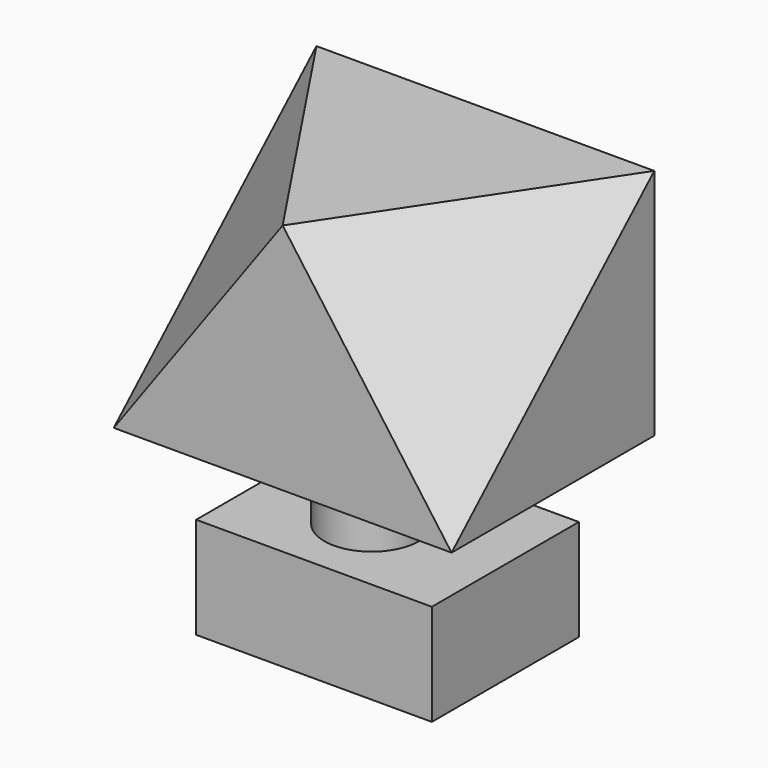
from build123d import *

# Parameters (mm, degrees)
F0_W      = 2540
F0_H      = 1752.6
F1_DEPTH  = 1905
F6_DEPTH  = 2540
F9_DEPTH  = 2540
F10_R     = 356.2143235098
F11_DEPTH = 609.6
F12_W     = 1772.005200386
F12_H     = 1381.2552392483
F13_DEPTH = 762


with BuildPart() as f1:
    # F0 (on Front) → F1 (new body)
    with BuildSketch(Plane.XZ):
        with Locations((1270, -876.3)):
            Rectangle(F0_W, F0_H)
    extrude(amount=F1_DEPTH)

    # F5 (on 3pt) → F6 (cut)
    with BuildSketch(Plane(origin=(1289.6384771249, -859.7589847499, 934.5206355977), x_dir=(0.3846597509, 0.8799667459, 0.2787389499), z_dir=(0.7125529341, -0.4750352894, 0.5163427059))):
        Polygon((3353.7168502808, 2692.031621933), (-3737.0851039886, 250.3813803196), (-2471.1351394653, -4877.2144317627), (9797.2965240478, -2905.4529666901), align=None)
    extrude(amount=F6_DEPTH, mode=Mode.SUBTRACT)

    # F8 (on 3pt) → F9 (cut)
    with BuildSketch(Plane(origin=(0, 0, 0), x_dir=(0.3846597509, -0.8799667459, -0.2787389499), z_dir=(-0.7125529341, -0.4750352894, 0.5163427059))):
        Polygon((6334.8989486694, 2345.2963829041), (-1106.8929433823, 0), (464.3750488758, -2554.3527603149), (8031.7029953003, -2892.7919864655), align=None)
    extrude(amount=F9_DEPTH, mode=Mode.SUBTRACT)

    # F10 (on face) → F11 (join)
    with BuildSketch(Plane(origin=(0, 0, -1752.6), x_dir=(1, 0, 0), z_dir=(0, 0, -1))):
        with Locations((1212.0447158813, 995.9666728973)):
            Circle(F10_R)
    extrude(amount=F11_DEPTH)

    # F12 (on face) → F13 (join)
    with BuildSketch(Plane(origin=(0, 0, -2362.2), x_dir=(1, 0, 0), z_dir=(0, 0, -1))):
        with Locations((1262.0241045952, 909.6381217241)):
            Rectangle(F12_W, F12_H)
    extrude(amount=F13_DEPTH)


solid = f1.part
